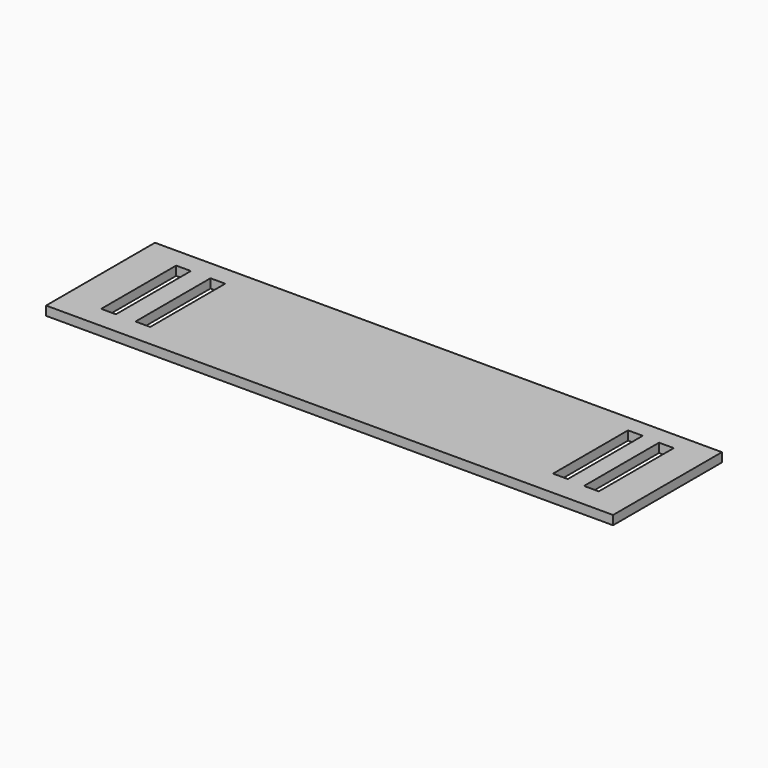
from build123d import *

# Parameters (mm, degrees)
F0_W     = 125
F0_H     = 30
F0_W_2   = 3.247637
F0_H_2   = 20.66679
F0_W_3   = 3.247638
F0_H_3   = 20.666791
F1_DEPTH = 2


with BuildPart() as f1:
    # F0 (on Top) → F1 (new body)
    with BuildSketch(Plane.XY):
        Rectangle(F0_W, F0_H)
        with Locations((-52.700312, 0.29524)):
            Rectangle(F0_W_2, F0_H_2, mode=Mode.SUBTRACT)
        with Locations((-45.134684, 0.29524)):
            Rectangle(F0_W_3, F0_H_2, mode=Mode.SUBTRACT)
        with Locations((46.420147, 0.921394)):
            Rectangle(F0_W_2, F0_H_2, mode=Mode.SUBTRACT)
        with Locations((53.455816, 0.667396)):
            Rectangle(F0_W_2, F0_H_3, mode=Mode.SUBTRACT)
    extrude(amount=F1_DEPTH)


solid = f1.part
